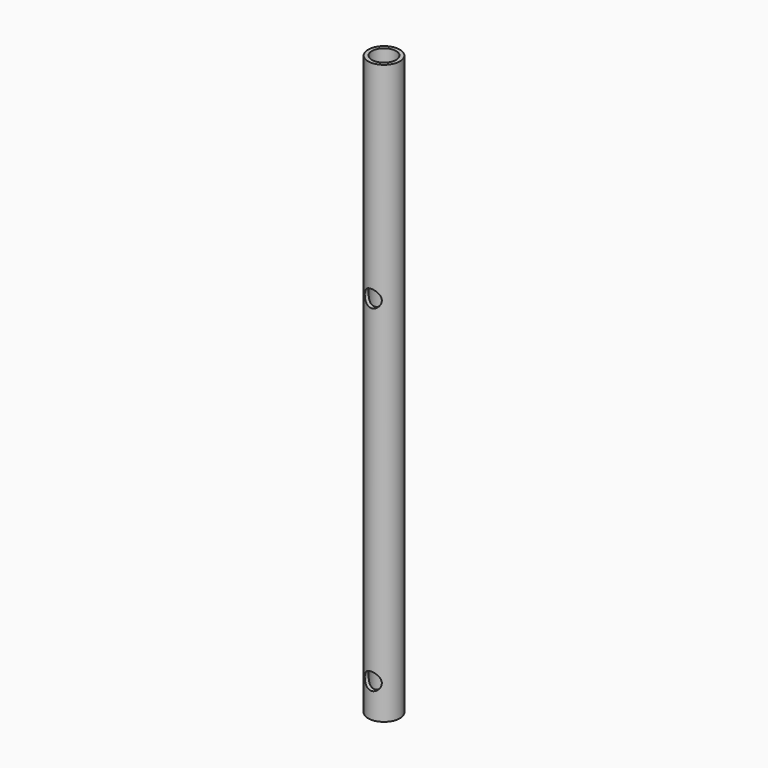
from build123d import *

# Parameters (mm, degrees)
F0_W     = 4
F0_H     = 609.6
F2_R     = 9
F3_DEPTH = 16.779358


with BuildPart() as f1:
    # F0 (on Right) → F1 (revolve)
    with BuildSketch(Plane.YZ):
        with Locations((14.721642, 13.90418)):
            Rectangle(F0_W, F0_H)
    revolve(axis=Axis((0, -0.028358, 13.90418), (0, 0, -1)))

    # F2 (on Front) → F3 (cut, through all)
    with BuildSketch(Plane.XZ):
        with Locations((0, 100)):
            Circle(F2_R)
        with Locations((0, -255)):
            Circle(F2_R)
    extrude(amount=F3_DEPTH, mode=Mode.SUBTRACT)


solid = f1.part
